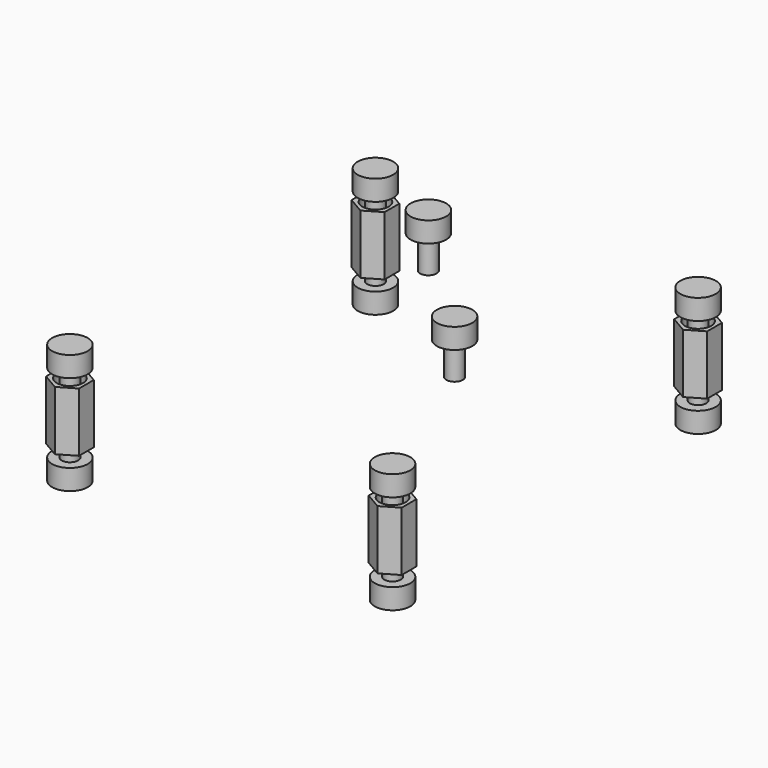
from build123d import *

# Parameters (mm, degrees)
BODY005_PLACEMENT_ANGLE    = 180
BODY004_PLACEMENT_ANGLE    = 180
SKETCH_R                   = 2
EXTRUDE_DEPTH              = 9
EXTRUDE_PLACEMENT_ANGLE    = 90
SKETCH001_R                = 2
EXTRUDE001_DEPTH           = 9
EXTRUDE001_PLACEMENT_ANGLE = 90
SKETCH002_R                = 2
EXTRUDE002_DEPTH           = 9
EXTRUDE002_PLACEMENT_ANGLE = 90
SKETCH003_R                = 2
EXTRUDE003_DEPTH           = 9
EXTRUDE003_PLACEMENT_ANGLE = 90
BODY007_PLACEMENT_ANGLE    = 180
BODY009_PLACEMENT_ANGLE    = 180
BODY010_PLACEMENT_ANGLE    = 180
BODY006_PLACEMENT_ANGLE    = 180


with BuildPart() as body005:
    # Sketch011 → Revolution005 (revolve)
    with BuildSketch(Plane.XZ):
        Polygon((1.25, 0), (1.25, 5), (0, 5), (0, -3.1), (2.7, -3.1), (2.7, 0), align=None)
    revolve(axis=Axis((0, 0, 0), (0, 0, 1)))


with BuildPart() as body005_1:
    # Body005 placement: moved
    add(body005.part.moved(Location((24.5, 39, 11.2))).rotate(Axis((24.5, 39, 11.2), (0, 1, 0)), BODY005_PLACEMENT_ANGLE))


with BuildPart() as body003:
    # Sketch009 → Revolution003 (revolve)
    with BuildSketch(Plane.XZ):
        Polygon((1.25, 0), (1.25, 5), (0, 5), (0, -3.1), (2.7, -3.1), (2.7, 0), align=None)
    revolve(axis=Axis((0, 0, 0), (0, 0, 1)))


with BuildPart() as body003_1:
    # Body003 placement: moved
    add(body003.part.moved(Location((-24.5, 39, -0.8))))


with BuildPart() as body004:
    # Sketch010 → Revolution004 (revolve)
    with BuildSketch(Plane.XZ):
        Polygon((1.25, 0), (1.25, 5), (0, 5), (0, -3.1), (2.7, -3.1), (2.7, 0), align=None)
    revolve(axis=Axis((0, 0, 0), (0, 0, 1)))


with BuildPart() as body004_1:
    # Body004 placement: moved
    add(body004.part.moved(Location((24.5, -19, 11.2))).rotate(Axis((24.5, -19, 11.2), (1, 0, 0)), BODY004_PLACEMENT_ANGLE))


with BuildPart() as body002:
    # Sketch008 → Revolution002 (revolve)
    with BuildSketch(Plane.XZ):
        Polygon((1.25, 0), (1.25, 5), (0, 5), (0, -3.1), (2.7, -3.1), (2.7, 0), align=None)
    revolve(axis=Axis((0, 0, 0), (0, 0, 1)))


with BuildPart() as body002_1:
    # Body002 placement: moved
    add(body002.part.moved(Location((24.5, 39, -0.8))))


with BuildPart() as body001:
    # Sketch007 → Revolution001 (revolve)
    with BuildSketch(Plane.XZ):
        Polygon((1.25, 0), (1.25, 5), (0, 5), (0, -3.1), (2.7, -3.1), (2.7, 0), align=None)
    revolve(axis=Axis((0, 0, 0), (0, 0, 1)))


with BuildPart() as body001_1:
    # Body001 placement: moved
    add(body001.part.moved(Location((-24.5, -19, -0.8))))


with BuildPart() as body:
    # Sketch006 → Revolution (revolve)
    with BuildSketch(Plane.XZ):
        Polygon((1.25, 0), (1.25, 5), (0, 5), (0, -3.1), (2.7, -3.1), (2.7, 0), align=None)
    revolve(axis=Axis((0, 0, 0), (0, 0, 1)))


with BuildPart() as body_1:
    # Body placement: moved
    add(body.part.moved(Location((24.5, -19, -0.8))))


with BuildPart() as stand_off:
    # Sketch → Extrude (new body)
    with BuildSketch(Plane.XY):
        Polygon((-1.4, 2.5), (1.4, 2.5), (2.86531, 0), (1.4, -2.5), (-1.4, -2.5), (-2.86531, 0), align=None)
        Circle(SKETCH_R, mode=Mode.SUBTRACT)
    extrude(amount=EXTRUDE_DEPTH)


with BuildPart() as stand_off_1:
    # Extrude placement: moved
    add(stand_off.part.moved(Location((-24.5, 39, 0.8))).rotate(Axis((-24.5, 39, 0.8), (0, 0, -1)), EXTRUDE_PLACEMENT_ANGLE))


with BuildPart() as stand_off001:
    # Sketch001 → Extrude001 (new body)
    with BuildSketch(Plane.XY):
        Polygon((-1.4, 2.5), (1.4, 2.5), (2.86531, 0), (1.4, -2.5), (-1.4, -2.5), (-2.86531, 0), align=None)
        Circle(SKETCH001_R, mode=Mode.SUBTRACT)
    extrude(amount=EXTRUDE001_DEPTH)


with BuildPart() as stand_off001_1:
    # Extrude001 placement: moved
    add(stand_off001.part.moved(Location((24.5, 39, 0.8))).rotate(Axis((24.5, 39, 0.8), (0, 0, -1)), EXTRUDE001_PLACEMENT_ANGLE))


with BuildPart() as stand_off002:
    # Sketch002 → Extrude002 (new body)
    with BuildSketch(Plane.XY):
        Polygon((-1.4, 2.5), (1.4, 2.5), (2.86531, 0), (1.4, -2.5), (-1.4, -2.5), (-2.86531, 0), align=None)
        Circle(SKETCH002_R, mode=Mode.SUBTRACT)
    extrude(amount=EXTRUDE002_DEPTH)


with BuildPart() as stand_off002_1:
    # Extrude002 placement: moved
    add(stand_off002.part.moved(Location((-24.5, -19, 0.8))).rotate(Axis((-24.5, -19, 0.8), (0, 0, -1)), EXTRUDE002_PLACEMENT_ANGLE))


with BuildPart() as stand_off003:
    # Sketch003 → Extrude003 (new body)
    with BuildSketch(Plane.XY):
        Polygon((-1.4, 2.5), (1.4, 2.5), (2.86531, 0), (1.4, -2.5), (-1.4, -2.5), (-2.86531, 0), align=None)
        Circle(SKETCH003_R, mode=Mode.SUBTRACT)
    extrude(amount=EXTRUDE003_DEPTH)


with BuildPart() as stand_off003_1:
    # Extrude003 placement: moved
    add(stand_off003.part.moved(Location((24.5, -19, 0.8))).rotate(Axis((24.5, -19, 0.8), (0, 0, -1)), EXTRUDE003_PLACEMENT_ANGLE))


with BuildPart() as body007:
    # Sketch013 → Revolution007 (revolve)
    with BuildSketch(Plane.XZ):
        Polygon((1.25, 0), (1.25, 5), (0, 5), (0, -3.1), (2.7, -3.1), (2.7, 0), align=None)
    revolve(axis=Axis((0, 0, 0), (0, 0, 1)))


with BuildPart() as body007_1:
    # Body007 placement: moved
    add(body007.part.moved(Location((-24.5, 39, 11.2))).rotate(Axis((-24.5, 39, 11.2), (1, 0, 0)), BODY007_PLACEMENT_ANGLE))


with BuildPart() as body009:
    # Sketch015 → Revolution009 (revolve)
    with BuildSketch(Plane.XZ):
        Polygon((1.25, 0), (1.25, 5), (0, 5), (0, -3.1), (2.7, -3.1), (2.7, 0), align=None)
    revolve(axis=Axis((0, 0, 0), (0, 0, 1)))


with BuildPart() as body009_1:
    # Body009 placement: moved
    add(body009.part.moved(Location((-5.1, 24.8, 17.7))).rotate(Axis((-5.1, 24.8, 17.7), (1, 0, 0)), BODY009_PLACEMENT_ANGLE))


with BuildPart() as body010:
    # Sketch016 → Revolution010 (revolve)
    with BuildSketch(Plane.XZ):
        Polygon((1.25, 0), (1.25, 5), (0, 5), (0, -3.1), (2.7, -3.1), (2.7, 0), align=None)
    revolve(axis=Axis((0, 0, 0), (0, 0, 1)))


with BuildPart() as body010_1:
    # Body010 placement: moved
    add(body010.part.moved(Location((14.4, 5.4, 17.7))).rotate(Axis((14.4, 5.4, 17.7), (1, 0, 0)), BODY010_PLACEMENT_ANGLE))


with BuildPart() as obj1:
    # Sketch012 → Revolution006 (revolve)
    with BuildSketch(Plane.XZ):
        Polygon((1.25, 0), (1.25, 5), (0, 5), (0, -3.1), (2.7, -3.1), (2.7, 0), align=None)
    revolve(axis=Axis((0, 0, 0), (0, 0, 1)))


with BuildPart() as obj1_1:
    # Body006 placement: moved
    add(obj1.part.moved(Location((-24.5, -19, 11.2))).rotate(Axis((-24.5, -19, 11.2), (1, 0, 0)), BODY006_PLACEMENT_ANGLE))

    # Fusion: union Body005, Body003, Body004, Body002, Body001, Body, stand off, stand off001, stand off002, stand off003, Body007, Body009, Body010
    add(body005_1.part)
    add(body003_1.part)
    add(body004_1.part)
    add(body002_1.part)
    add(body001_1.part)
    add(body_1.part)
    add(stand_off_1.part)
    add(stand_off001_1.part)
    add(stand_off002_1.part)
    add(stand_off003_1.part)
    add(body007_1.part)
    add(body009_1.part)
    add(body010_1.part)


solid = obj1_1.part
